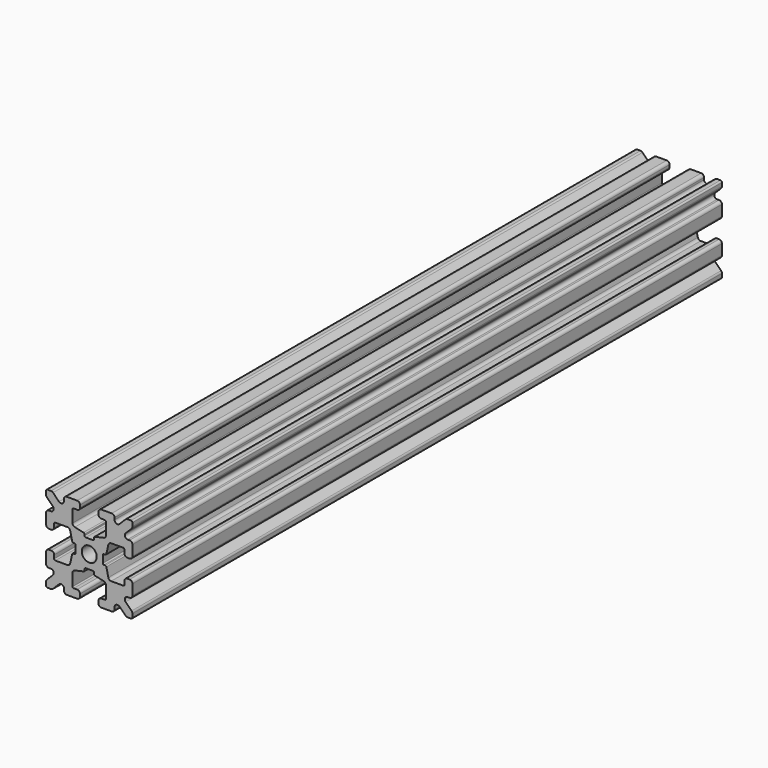
from build123d import *

# Parameters (mm, degrees)
F0_R     = 1.3
F1_DEPTH = 64


with BuildPart() as f1:
    # F0 (on Front) → F1 (new body, symmetric)
    with BuildSketch(Plane.XZ):
        with BuildLine():
            ThreePointArc((0.6255, -2.347065), (0.766921, -2.405643), (0.8255, -2.547065))
            Line((0.8255, -2.547065), (0.8255, -2.774891))
            ThreePointArc((0.8255, -2.774891), (0.869378, -2.899894), (0.981758, -2.970049))
            Line((0.981758, -2.970049), (2.509356, -3.312442))
            ThreePointArc((2.509356, -3.312442), (2.790306, -3.487829), (2.9, -3.800337))
            Line((2.9, -3.800337), (2.9, -5.9))
            ThreePointArc((2.9, -5.9), (2.841421, -6.041421), (2.7, -6.1))
            Line((2.7, -6.1), (2.1, -6.1))
            ThreePointArc((2.1, -6.1), (1.746447, -6.246447), (1.6, -6.6))
            Line((1.6, -6.6), (1.6, -7))
            ThreePointArc((1.6, -7), (1.746447, -7.353553), (2.1, -7.5))
            Line((2.1, -7.5), (3.9, -7.5))
            ThreePointArc((3.9, -7.5), (4.253553, -7.353553), (4.4, -7))
            Line((4.4, -7), (4.4, -6.667767))
            ThreePointArc((4.4, -6.667767), (4.708658, -6.205827), (5.253553, -6.314214))
            Line((5.253553, -6.314214), (6.292893, -7.353553))
            ThreePointArc((6.292893, -7.353553), (6.455105, -7.46194), (6.646447, -7.5))
            Line((6.646447, -7.5), (7.25, -7.5))
            ThreePointArc((7.25, -7.5), (7.426777, -7.426777), (7.5, -7.25))
            Line((7.5, -7.25), (7.5, -6.646447))
            ThreePointArc((7.5, -6.646447), (7.46194, -6.455105), (7.353553, -6.292893))
            Line((7.353553, -6.292893), (6.314214, -5.253553))
            ThreePointArc((6.314214, -5.253553), (6.205827, -4.708658), (6.667767, -4.4))
            Line((6.667767, -4.4), (7, -4.4))
            ThreePointArc((7, -4.4), (7.353553, -4.253553), (7.5, -3.9))
            Line((7.5, -3.9), (7.5, -2.1))
            ThreePointArc((7.5, -2.1), (7.353553, -1.746447), (7, -1.6))
            Line((7, -1.6), (6.6, -1.6))
            ThreePointArc((6.6, -1.6), (6.246447, -1.746447), (6.1, -2.1))
            Line((6.1, -2.1), (6.1, -2.7))
            ThreePointArc((6.1, -2.7), (6.041421, -2.841421), (5.9, -2.9))
            Line((5.9, -2.9), (3.800337, -2.9))
            ThreePointArc((3.800337, -2.9), (3.487829, -2.790306), (3.312442, -2.509356))
            Line((3.312442, -2.509356), (2.970049, -0.981758))
            ThreePointArc((2.970049, -0.981758), (2.899894, -0.869378), (2.774891, -0.8255))
            Line((2.774891, -0.8255), (2.547065, -0.8255))
            ThreePointArc((2.547065, -0.8255), (2.405643, -0.766921), (2.347065, -0.6255))
            Line((2.347065, -0.6255), (2.347065, 0.6255))
            ThreePointArc((2.347065, 0.6255), (2.405643, 0.766921), (2.547065, 0.8255))
            Line((2.547065, 0.8255), (2.774891, 0.8255))
            ThreePointArc((2.774891, 0.8255), (2.899894, 0.869378), (2.970049, 0.981758))
            Line((2.970049, 0.981758), (3.312442, 2.509356))
            ThreePointArc((3.312442, 2.509356), (3.487829, 2.790306), (3.800337, 2.9))
            Line((3.800337, 2.9), (5.9, 2.9))
            ThreePointArc((5.9, 2.9), (6.041421, 2.841421), (6.1, 2.7))
            Line((6.1, 2.7), (6.1, 2.1))
            ThreePointArc((6.1, 2.1), (6.246447, 1.746447), (6.6, 1.6))
            Line((6.6, 1.6), (7, 1.6))
            ThreePointArc((7, 1.6), (7.353553, 1.746447), (7.5, 2.1))
            Line((7.5, 2.1), (7.5, 3.9))
            ThreePointArc((7.5, 3.9), (7.353553, 4.253553), (7, 4.4))
            Line((7, 4.4), (6.667767, 4.4))
            ThreePointArc((6.667767, 4.4), (6.205827, 4.708658), (6.314214, 5.253553))
            Line((6.314214, 5.253553), (7.353553, 6.292893))
            ThreePointArc((7.353553, 6.292893), (7.46194, 6.455105), (7.5, 6.646447))
            Line((7.5, 6.646447), (7.5, 7.25))
            ThreePointArc((7.5, 7.25), (7.426777, 7.426777), (7.25, 7.5))
            Line((7.25, 7.5), (6.646447, 7.5))
            ThreePointArc((6.646447, 7.5), (6.455105, 7.46194), (6.292893, 7.353553))
            Line((6.292893, 7.353553), (5.253553, 6.314214))
            ThreePointArc((5.253553, 6.314214), (4.708658, 6.205827), (4.4, 6.667767))
            Line((4.4, 6.667767), (4.4, 7))
            ThreePointArc((4.4, 7), (4.253553, 7.353553), (3.9, 7.5))
            Line((3.9, 7.5), (2.1, 7.5))
            ThreePointArc((2.1, 7.5), (1.746447, 7.353553), (1.6, 7))
            Line((1.6, 7), (1.6, 6.6))
            ThreePointArc((1.6, 6.6), (1.746447, 6.246447), (2.1, 6.1))
            Line((2.1, 6.1), (2.7, 6.1))
            ThreePointArc((2.7, 6.1), (2.841421, 6.041421), (2.9, 5.9))
            Line((2.9, 5.9), (2.9, 3.800337))
            ThreePointArc((2.9, 3.800337), (2.790306, 3.487829), (2.509356, 3.312442))
            Line((2.509356, 3.312442), (0.981758, 2.970049))
            ThreePointArc((0.981758, 2.970049), (0.869378, 2.899894), (0.8255, 2.774891))
            Line((0.8255, 2.774891), (0.8255, 2.547065))
            ThreePointArc((0.8255, 2.547065), (0.766921, 2.405643), (0.6255, 2.347065))
            Line((0.6255, 2.347065), (-0.6255, 2.347065))
            ThreePointArc((-0.6255, 2.347065), (-0.766921, 2.405643), (-0.8255, 2.547065))
            Line((-0.8255, 2.547065), (-0.8255, 2.774891))
            ThreePointArc((-0.8255, 2.774891), (-0.869378, 2.899894), (-0.981758, 2.970049))
            Line((-0.981758, 2.970049), (-2.509356, 3.312442))
            ThreePointArc((-2.509356, 3.312442), (-2.790306, 3.487829), (-2.9, 3.800337))
            Line((-2.9, 3.800337), (-2.9, 5.9))
            ThreePointArc((-2.9, 5.9), (-2.841421, 6.041421), (-2.7, 6.1))
            Line((-2.7, 6.1), (-2.1, 6.1))
            ThreePointArc((-2.1, 6.1), (-1.746447, 6.246447), (-1.6, 6.6))
            Line((-1.6, 6.6), (-1.6, 7))
            ThreePointArc((-1.6, 7), (-1.746447, 7.353553), (-2.1, 7.5))
            Line((-2.1, 7.5), (-3.9, 7.5))
            ThreePointArc((-3.9, 7.5), (-4.253553, 7.353553), (-4.4, 7))
            Line((-4.4, 7), (-4.4, 6.667767))
            ThreePointArc((-4.4, 6.667767), (-4.708658, 6.205827), (-5.253553, 6.314214))
            Line((-5.253553, 6.314214), (-6.292893, 7.353553))
            ThreePointArc((-6.292893, 7.353553), (-6.455105, 7.46194), (-6.646447, 7.5))
            Line((-6.646447, 7.5), (-7.25, 7.5))
            ThreePointArc((-7.25, 7.5), (-7.426777, 7.426777), (-7.5, 7.25))
            Line((-7.5, 7.25), (-7.5, 6.646447))
            ThreePointArc((-7.5, 6.646447), (-7.46194, 6.455105), (-7.353553, 6.292893))
            Line((-7.353553, 6.292893), (-6.314214, 5.253553))
            ThreePointArc((-6.314214, 5.253553), (-6.205827, 4.708658), (-6.667767, 4.4))
            Line((-6.667767, 4.4), (-7, 4.4))
            ThreePointArc((-7, 4.4), (-7.353553, 4.253553), (-7.5, 3.9))
            Line((-7.5, 3.9), (-7.5, 2.1))
            ThreePointArc((-7.5, 2.1), (-7.353553, 1.746447), (-7, 1.6))
            Line((-7, 1.6), (-6.6, 1.6))
            ThreePointArc((-6.6, 1.6), (-6.246447, 1.746447), (-6.1, 2.1))
            Line((-6.1, 2.1), (-6.1, 2.7))
            ThreePointArc((-6.1, 2.7), (-6.041421, 2.841421), (-5.9, 2.9))
            Line((-5.9, 2.9), (-3.800337, 2.9))
            ThreePointArc((-3.800337, 2.9), (-3.487829, 2.790306), (-3.312442, 2.509356))
            Line((-3.312442, 2.509356), (-2.970049, 0.981758))
            ThreePointArc((-2.970049, 0.981758), (-2.899894, 0.869378), (-2.774891, 0.8255))
            Line((-2.774891, 0.8255), (-2.547065, 0.8255))
            ThreePointArc((-2.547065, 0.8255), (-2.405643, 0.766921), (-2.347065, 0.6255))
            Line((-2.347065, 0.6255), (-2.347065, -0.6255))
            ThreePointArc((-2.347065, -0.6255), (-2.405643, -0.766921), (-2.547065, -0.8255))
            Line((-2.547065, -0.8255), (-2.774891, -0.8255))
            ThreePointArc((-2.774891, -0.8255), (-2.899894, -0.869378), (-2.970049, -0.981758))
            Line((-2.970049, -0.981758), (-3.312442, -2.509356))
            ThreePointArc((-3.312442, -2.509356), (-3.487829, -2.790306), (-3.800337, -2.9))
            Line((-3.800337, -2.9), (-5.9, -2.9))
            ThreePointArc((-5.9, -2.9), (-6.041421, -2.841421), (-6.1, -2.7))
            Line((-6.1, -2.7), (-6.1, -2.1))
            ThreePointArc((-6.1, -2.1), (-6.246447, -1.746447), (-6.6, -1.6))
            Line((-6.6, -1.6), (-7, -1.6))
            ThreePointArc((-7, -1.6), (-7.353553, -1.746447), (-7.5, -2.1))
            Line((-7.5, -2.1), (-7.5, -3.9))
            ThreePointArc((-7.5, -3.9), (-7.353553, -4.253553), (-7, -4.4))
            Line((-7, -4.4), (-6.667767, -4.4))
            ThreePointArc((-6.667767, -4.4), (-6.205827, -4.708658), (-6.314214, -5.253553))
            Line((-6.314214, -5.253553), (-7.353553, -6.292893))
            ThreePointArc((-7.353553, -6.292893), (-7.46194, -6.455105), (-7.5, -6.646447))
            Line((-7.5, -6.646447), (-7.5, -7.25))
            ThreePointArc((-7.5, -7.25), (-7.426777, -7.426777), (-7.25, -7.5))
            Line((-7.25, -7.5), (-6.646447, -7.5))
            ThreePointArc((-6.646447, -7.5), (-6.455105, -7.46194), (-6.292893, -7.353553))
            Line((-6.292893, -7.353553), (-5.253553, -6.314214))
            ThreePointArc((-5.253553, -6.314214), (-4.708658, -6.205827), (-4.4, -6.667767))
            Line((-4.4, -6.667767), (-4.4, -7))
            ThreePointArc((-4.4, -7), (-4.253553, -7.353553), (-3.9, -7.5))
            Line((-3.9, -7.5), (-2.1, -7.5))
            ThreePointArc((-2.1, -7.5), (-1.746447, -7.353553), (-1.6, -7))
            Line((-1.6, -7), (-1.6, -6.6))
            ThreePointArc((-1.6, -6.6), (-1.746447, -6.246447), (-2.1, -6.1))
            Line((-2.1, -6.1), (-2.7, -6.1))
            ThreePointArc((-2.7, -6.1), (-2.841421, -6.041421), (-2.9, -5.9))
            Line((-2.9, -5.9), (-2.9, -3.800337))
            ThreePointArc((-2.9, -3.800337), (-2.790306, -3.487829), (-2.509356, -3.312442))
            Line((-2.509356, -3.312442), (-0.981758, -2.970049))
            ThreePointArc((-0.981758, -2.970049), (-0.869378, -2.899894), (-0.8255, -2.774891))
            Line((-0.8255, -2.774891), (-0.8255, -2.547065))
            ThreePointArc((-0.8255, -2.547065), (-0.766921, -2.405643), (-0.6255, -2.347065))
            Line((-0.6255, -2.347065), (0.6255, -2.347065))
        make_face()
        Circle(F0_R, mode=Mode.SUBTRACT)
    extrude(amount=F1_DEPTH, both=True)


solid = f1.part
